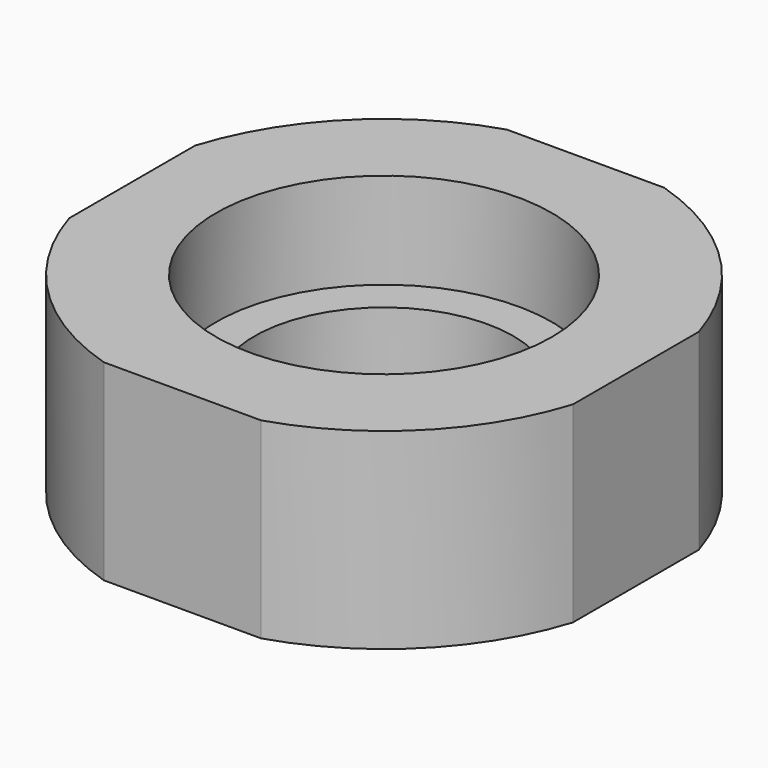
from build123d import *

# Parameters (mm, degrees)
F2_W     = 11.5
F2_H     = 11.5
F2_W_2   = 10.5
F2_H_2   = 10.5
F3_DEPTH = 25


with BuildPart() as f1:
    # F0 (on Front) → F1 (revolve)
    with BuildSketch(Plane.XZ):
        Polygon((5.5, 4), (3.5, 4), (3.5, 2), (2.7, 2), (2.7, 0), (5.5, 0), align=None)
    revolve(axis=Axis((0, 0, 5.877999), (0, 0, 1)))

    # F2 (on Top) → F3 (cut)
    with BuildSketch(Plane.XY):
        Rectangle(F2_W, F2_H)
        Rectangle(F2_W_2, F2_H_2, mode=Mode.SUBTRACT)
    extrude(amount=F3_DEPTH, mode=Mode.SUBTRACT)


solid = f1.part
